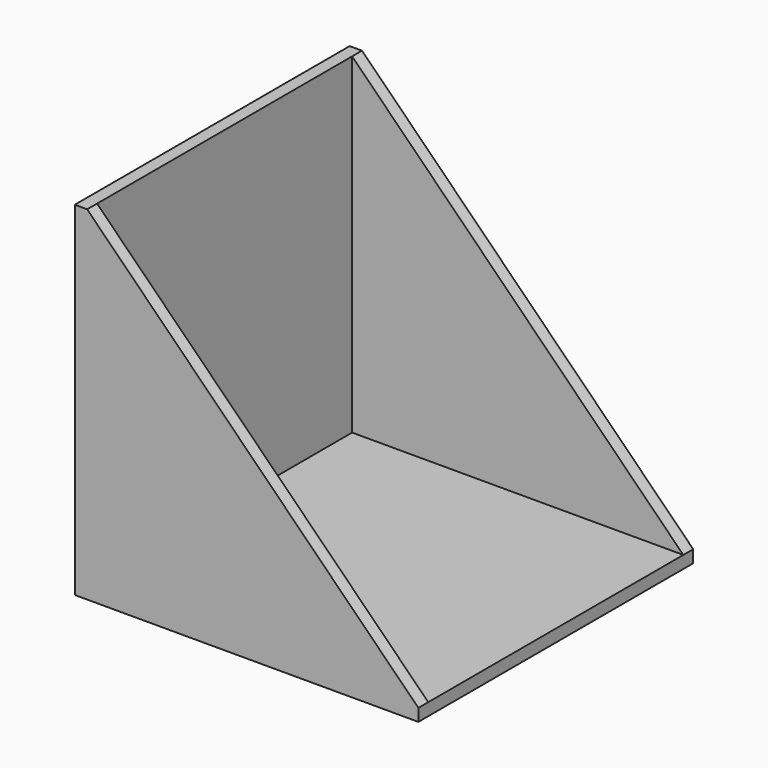
from build123d import *

# Parameters (mm, degrees)
F1_DEPTH = 250
F2_DEPTH = 232


with BuildPart() as f1:
    # F0 (on Front) → F1 (new body, symmetric)
    with BuildSketch(Plane.XZ):
        Polygon((-198.168553, 183.939874), (-216.168553, 183.939874), (-216.168553, -316.060126), (283.831447, -316.060126), (283.831447, -298.060126), (-198.168553, -298.060126), align=None)
        Polygon((283.831447, -298.060126), (-198.168553, 183.939874), (-198.168553, -298.060126), align=None)
    extrude(amount=F1_DEPTH, both=True)

    # F0 (on Front) → F2 (cut, symmetric)
    with BuildSketch(Plane.XZ):
        Polygon((283.831447, 183.939874), (-198.168553, 183.939874), (283.831447, -298.060126), align=None)
        Polygon((283.831447, -298.060126), (-198.168553, 183.939874), (-198.168553, -298.060126), align=None)
    extrude(amount=F2_DEPTH, both=True, mode=Mode.SUBTRACT)


solid = f1.part
